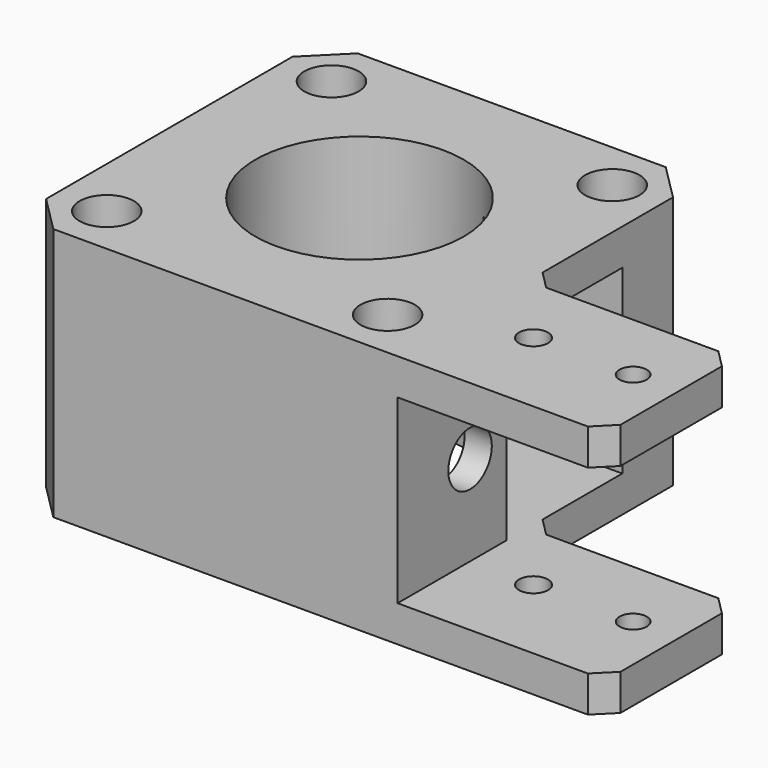
from build123d import *

# Parameters (mm, degrees)
SKETCH_R        = 2
SKETCH_R_2      = 11.5
SKETCH_R_3      = 1.6
SKETCH_R_4      = 1.5
PAD_DEPTH       = 28
SKETCH003_W     = 29
SKETCH003_H     = 20
POCKET_DEPTH    = 42
SKETCH004_R     = 3
POCKET001_DEPTH = 26
SKETCH005_R     = 3
POCKET002_DEPTH = 42
SKETCH006_W     = 16
SKETCH006_H     = 20
POCKET003_DEPTH = 16
SKETCH007_W     = 27
SKETCH007_H     = 20
POCKET004_DEPTH = 10


with BuildPart() as part:
    # Sketch → Pad (new body)
    with BuildSketch(Plane.XY):
        Polygon((-17, 21), (-21, 17), (-21, -17), (-17, -21), (42, -21), (44, -19), (44, -5), (42, -3), (23, -3), (21, -1), (21, 17), (17, 21), align=None)
        with Locations((-15.5, -15.5)):
            Circle(SKETCH_R, mode=Mode.SUBTRACT)
        with Locations((15.5, -15.5)):
            Circle(SKETCH_R, mode=Mode.SUBTRACT)
        with Locations((15.5, 15.5)):
            Circle(SKETCH_R, mode=Mode.SUBTRACT)
        with Locations((-15.5, 15.5)):
            Circle(SKETCH_R, mode=Mode.SUBTRACT)
        Circle(SKETCH_R_2, mode=Mode.SUBTRACT)
        with Locations((28, -11)):
            Circle(SKETCH_R_3, mode=Mode.SUBTRACT)
        with Locations((39, -11)):
            Circle(SKETCH_R_4, mode=Mode.SUBTRACT)
    extrude(amount=PAD_DEPTH)

    # Sketch003 (on Face4 of Pad) → Pocket (cut)
    with BuildSketch(Plane.XZ.offset(21)):
        with Locations((35.5, 14)):
            Rectangle(SKETCH003_W, SKETCH003_H)
    extrude(amount=-POCKET_DEPTH, mode=Mode.SUBTRACT)

    # Sketch004 (on Face5 of Pocket) → Pocket001 (cut)
    with BuildSketch(Plane.XY.offset(28)):
        with Locations((-15.5, -15.5)):
            Circle(SKETCH004_R)
        with Locations((-15.5, 15.5)):
            Circle(SKETCH004_R)
        with Locations((15.5, 15.5)):
            Circle(SKETCH004_R)
        with Locations((15.5, -15.5)):
            Circle(SKETCH004_R)
    extrude(amount=-POCKET001_DEPTH, mode=Mode.SUBTRACT)

    # Sketch005 (on Face14 of Pocket001) → Pocket002 (cut)
    with BuildSketch(Plane.YZ.offset(21)):
        with Locations((-11, 14)):
            Circle(SKETCH005_R)
    extrude(amount=-POCKET002_DEPTH, mode=Mode.SUBTRACT)

    # Sketch006 (on Face15 of Pocket002) → Pocket003 (cut)
    with BuildSketch(Plane.YZ.offset(21)):
        with Locations((2, 14)):
            Rectangle(SKETCH006_W, SKETCH006_H)
    extrude(amount=-POCKET003_DEPTH, mode=Mode.SUBTRACT)

    # Sketch007 (on Face36 of Pocket003) → Pocket004 (cut)
    with BuildSketch(Plane(origin=(0, -6, 0), x_dir=(-1, 0, 0), z_dir=(0, 1, 0))):
        with Locations((-4.5, 14.038037)):
            Rectangle(SKETCH007_W, SKETCH007_H)
    extrude(amount=-POCKET004_DEPTH, mode=Mode.SUBTRACT)


solid = part.part
